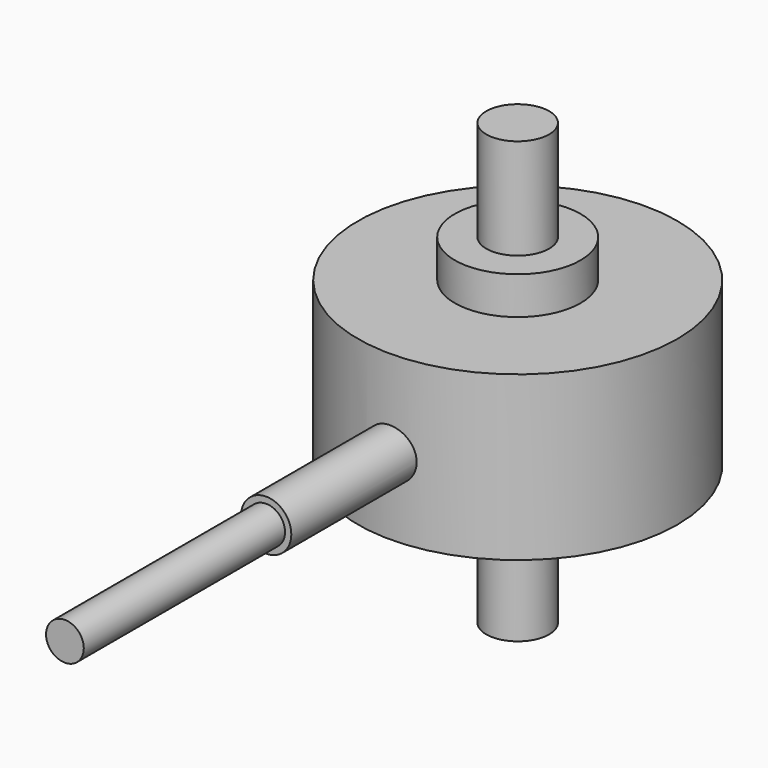
from build123d import *

# Parameters (mm, degrees)
SKETCH_R     = 12.7
PAD_DEPTH    = 13
SKETCH001_R  = 5
PAD001_DEPTH = 3
SKETCH002_R  = 2.5
PAD002_DEPTH = 8
SKETCH003_R  = 3.25
PAD003_DEPTH = 1
SKETCH004_R  = 2.5
PAD004_DEPTH = 10
SKETCH005_R  = 2
PAD005_DEPTH = 25
SKETCH006_R  = 1.5
PAD006_DEPTH = 20


with BuildPart() as part:
    # Sketch → Pad (new body)
    with BuildSketch(Plane.XY):
        Circle(SKETCH_R)
    extrude(amount=PAD_DEPTH)

    # Sketch001 (on Face3 of Pad) → Pad001 (join)
    with BuildSketch(Plane.XY.offset(13)):
        Circle(SKETCH001_R)
    extrude(amount=PAD001_DEPTH)

    # Sketch002 (on Face5 of Pad001) → Pad002 (join)
    with BuildSketch(Plane.XY.offset(16)):
        Circle(SKETCH002_R)
    extrude(amount=PAD002_DEPTH)

    # Sketch003 → Pad003 (join)
    with BuildSketch(Plane.XY):
        Circle(SKETCH003_R)
    extrude(amount=-PAD003_DEPTH)

    # Sketch004 (on Face6 of Pad003) → Pad004 (join)
    with BuildSketch(Plane(origin=(0, 0, -1), x_dir=(1, 0, 0), z_dir=(0, 0, -1))):
        Circle(SKETCH004_R)
    extrude(amount=PAD004_DEPTH)

    # Sketch005 → Pad005 (join)
    with BuildSketch(Plane.XZ):
        with Locations((0, 6)):
            Circle(SKETCH005_R)
    extrude(amount=PAD005_DEPTH)

    # Sketch006 (on Face7 of Pad005) → Pad006 (join)
    with BuildSketch(Plane.XZ.offset(25)):
        with Locations((0, 6)):
            Circle(SKETCH006_R)
    extrude(amount=PAD006_DEPTH)


solid = part.part
